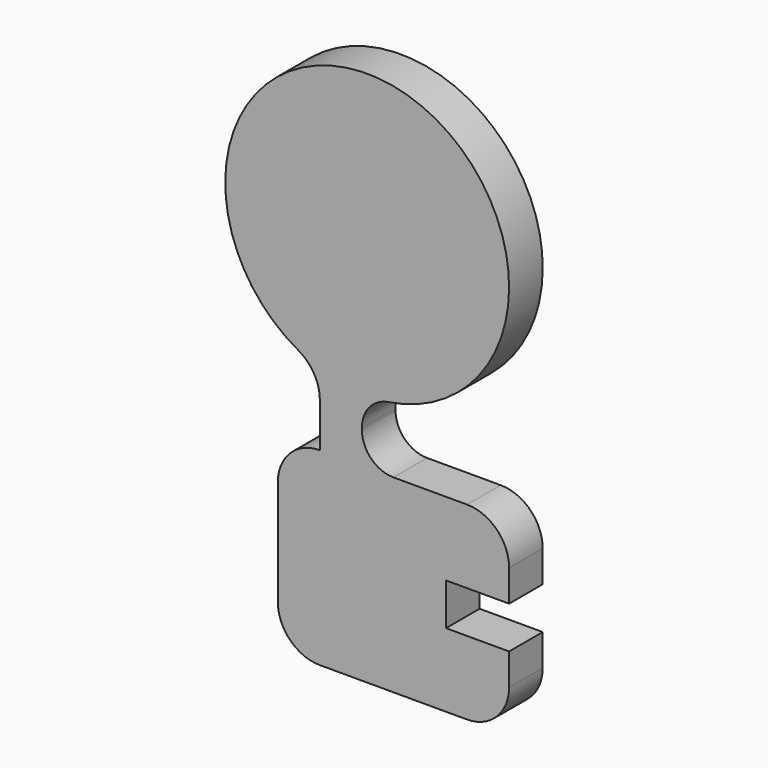
from build123d import *

# Parameters (mm, degrees)
F1_DEPTH = 2


with BuildPart() as f1:
    # F0 (on Front) → F1 (new body)
    with BuildSketch(Plane.XZ):
        with BuildLine():
            ThreePointArc((-0.25, -8.154753), (0.11182, -7.177745), (1.022727, -6.672071))
            ThreePointArc((1.022727, -6.672071), (1.192107, 6.643898), (-3.278571, -5.900294))
            ThreePointArc((-3.278571, -5.900294), (-2.526217, -6.634344), (-2.25, -7.648529))
            Line((-2.25, -7.648529), (-2.25, -9.75))
            ThreePointArc((-2.25, -9.75), (-3.664214, -10.335786), (-4.25, -11.75))
            Line((-4.25, -11.75), (-4.25, -16.75))
            ThreePointArc((-4.25, -16.75), (-3.664214, -18.164214), (-2.25, -18.75))
            Line((-2.25, -18.75), (4.75, -18.75))
            ThreePointArc((4.75, -18.75), (6.164214, -18.164214), (6.75, -16.75))
            Line((6.75, -16.75), (6.75, -15.25))
            Line((6.75, -15.25), (3.75, -15.25))
            Line((3.75, -15.25), (3.75, -13.25))
            Line((3.75, -13.25), (6.75, -13.25))
            Line((6.75, -13.25), (6.75, -11.75))
            ThreePointArc((6.75, -11.75), (6.164214, -10.335786), (4.75, -9.75))
            Line((4.75, -9.75), (1.25, -9.75))
            ThreePointArc((1.25, -9.75), (0.18934, -9.31066), (-0.25, -8.25))
            Line((-0.25, -8.25), (-0.25, -8.154753))
        make_face()
    extrude(amount=F1_DEPTH)


solid = f1.part
